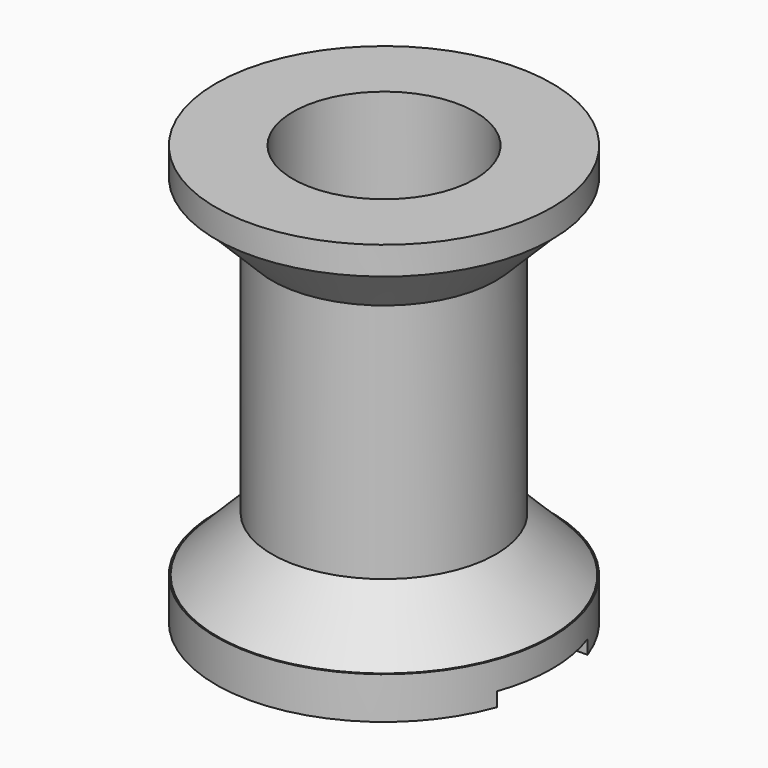
from build123d import *

# Parameters (mm, degrees)
POCKET_DEPTH = 1
CHAMFER_SIZE = 3.9


with BuildPart() as part:
    # Sketch004 (on XZ_Plane001 of Origin002) → Revolution001 (revolve)
    with BuildSketch(Plane.XZ):
        Polygon((6.5, 77), (12, 77), (12, 75), (8, 75), (8, 50), (12, 50), (12, 47), (6.5, 47), align=None)
    revolve(axis=Axis((0, 0, 0), (0, 0, 1)))

    # Sketch005 (on Face7 of Revolution001) → Pocket (cut)
    with BuildSketch(Plane(origin=(0, 0, 47), x_dir=(1, 0, 0), z_dir=(0, 0, -1))):
        with BuildLine():
            ThreePointArc((7.014806, 4.05), (0, 8.1), (-7.014806, 4.05))
            Line((-7.014806, 4.05), (-12, 4.05))
            Line((-12, 4.05), (-12, -4.05))
            Line((-12, -4.05), (-7.014806, -4.05))
            ThreePointArc((-7.014806, -4.05), (0, -8.1), (7.014806, -4.05))
            Line((7.014806, -4.05), (12, -4.05))
            Line((12, -4.05), (12, 4.05))
            Line((12, 4.05), (7.014806, 4.05))
        make_face()
    extrude(amount=-POCKET_DEPTH, mode=Mode.SUBTRACT)

    # Chamfer
    chamfer_edges = [part.edges().sort_by_distance(p)[0] for p in [
        (-8, 0, 75),
        (-8, 0, 50),
    ]]
    chamfer(chamfer_edges, length=CHAMFER_SIZE)


solid = part.part
